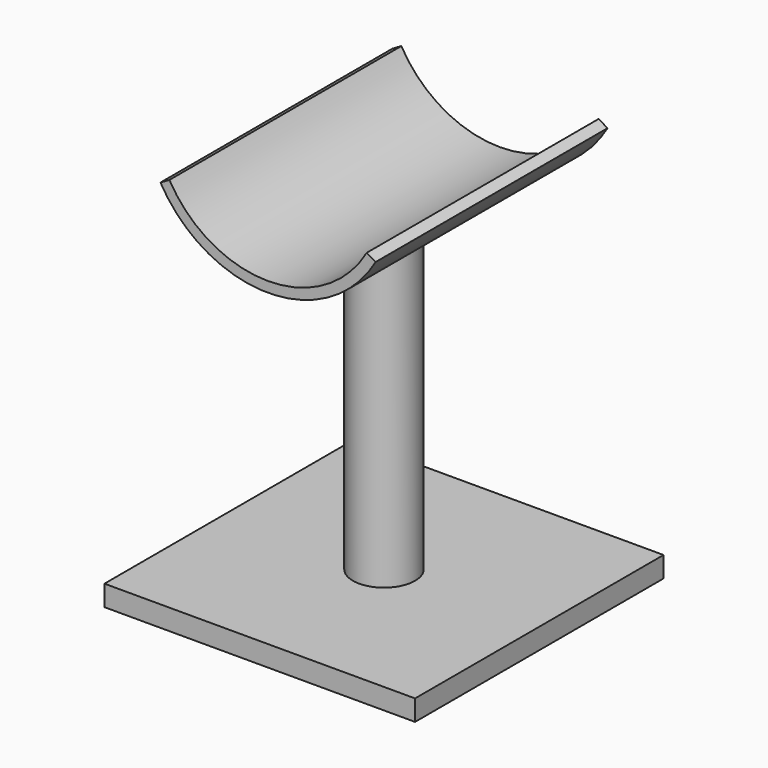
from build123d import *

# Parameters (mm, degrees)
F0_W     = 381
F0_H     = 381
F1_DEPTH = 25.4
F2_R     = 38.1
F3_DEPTH = 370.84
F5_DEPTH = 177.8


with BuildPart() as f1:
    # F0 (on Top) → F1 (new body)
    with BuildSketch(Plane.XY):
        Rectangle(F0_W, F0_H)
    extrude(amount=F1_DEPTH)


with BuildPart() as f3:
    # F2 (on face) → F3 (new body)
    with BuildSketch(Plane.XY.offset(25.4)):
        Circle(F2_R)
    extrude(amount=F3_DEPTH)


with BuildPart() as f5:
    # F4 (on Front) → F5 (new body, symmetric)
    with BuildSketch(Plane.XZ):
        with BuildLine():
            Line((-120.983749, 478.79), (-131.982272, 472.44))
            ThreePointArc((-131.982272, 472.44), (0, 396.24), (131.982272, 472.44))
            Line((131.982272, 472.44), (120.983749, 478.79))
            ThreePointArc((120.983749, 478.79), (0, 408.94), (-120.983749, 478.79))
        make_face()
    extrude(amount=F5_DEPTH, both=True)


solid = Compound([f1.part, f3.part, f5.part])
